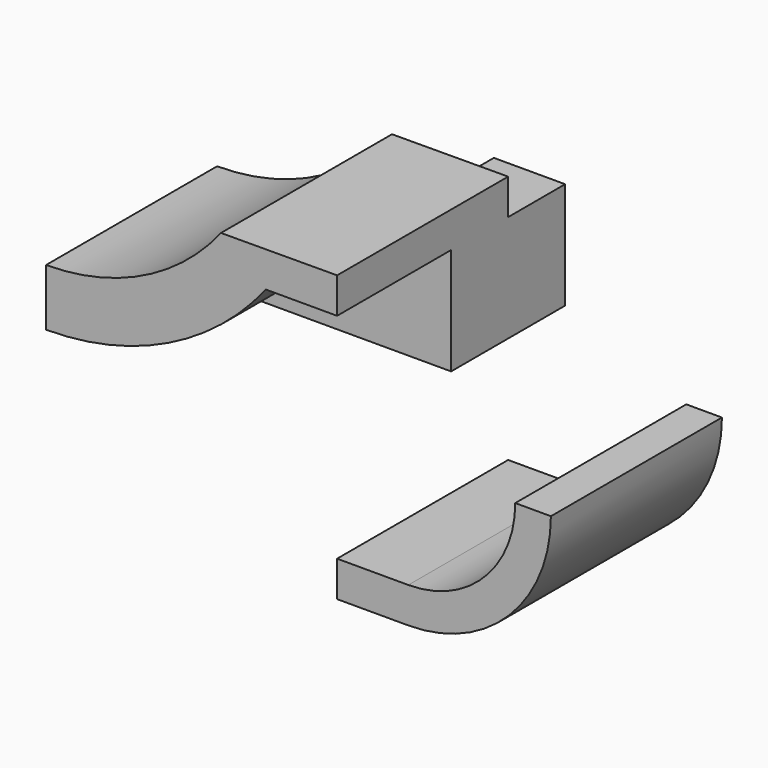
from build123d import *

# Parameters (mm, degrees)
F1_DEPTH = 12.7
F2_DEPTH = 38.1


with BuildPart() as f1:
    # F0 (on Front) → F1 (new body, symmetric)
    with BuildSketch(Plane.XZ):
        with BuildLine():
            Line((-51.861491, 0), (0, 0))
            Line((0, 0), (0, 19.049998))
            Line((0, 19.049998), (-12.7, 19.049998))
            ThreePointArc((-12.7, 19.049998), (-30.086937, 5.01514), (-51.861491, 0))
        make_face()
    extrude(amount=F1_DEPTH, both=True)

    # F0 (on Front) → F2 (join)
    with BuildSketch(Plane.XZ):
        with BuildLine():
            Line((-51.861491, 10.16), (-51.861491, 0))
            ThreePointArc((-51.861491, 0), (-30.086937, 5.01514), (-12.7, 19.049998))
            Line((-12.7, 19.049998), (0, 19.049998))
            Line((0, 19.049998), (0, 25.4))
            Line((0, 25.4), (-20.693175, 25.321741))
            ThreePointArc((-20.693175, 25.321741), (-34.531299, 14.151509), (-51.861491, 10.16))
        make_face()
        with BuildLine():
            Line((12.7, -19.05), (0, -19.05))
            Line((0, -19.05), (0, -25.4))
            Line((0, -25.4), (12.7, -25.4))
            ThreePointArc((12.7, -25.4), (30.660512, -17.960512), (38.1, 0))
            Line((38.1, 0), (31.75, 0))
            ThreePointArc((31.75, 0), (26.170384, -13.470384), (12.7, -19.05))
        make_face()
    extrude(amount=F2_DEPTH)


solid = f1.part
